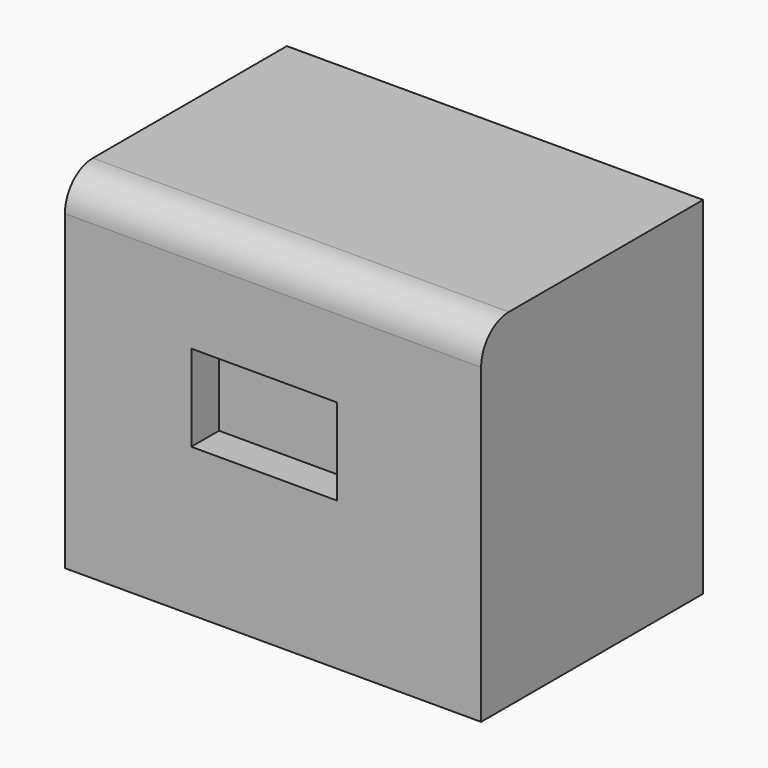
from build123d import *

# Parameters (mm, degrees)
F0_W     = 152.4
F0_H     = 101.6
F1_DEPTH = 127
F2_R     = 12.7
F3_W     = 53.302623
F3_H     = 31.648196
F4_DEPTH = 12.7


with BuildPart() as f1:
    # F0 (on Top) → F1 (new body)
    with BuildSketch(Plane.XY):
        with Locations((14.119559, -8.696024)):
            Rectangle(F0_W, F0_H)
    extrude(amount=F1_DEPTH)

    # F2
    f2_edges = [f1.edges().sort_by_distance(p)[0] for p in [
        (14.119559, -59.496024, 127),
    ]]
    fillet(f2_edges, radius=F2_R)

    # F3 (on face) → F4 (cut)
    with BuildSketch(Plane.XZ.offset(59.496024)):
        with Locations((10.842934, 70.015054)):
            Rectangle(F3_W, F3_H)
    extrude(amount=-F4_DEPTH, mode=Mode.SUBTRACT)


solid = f1.part
